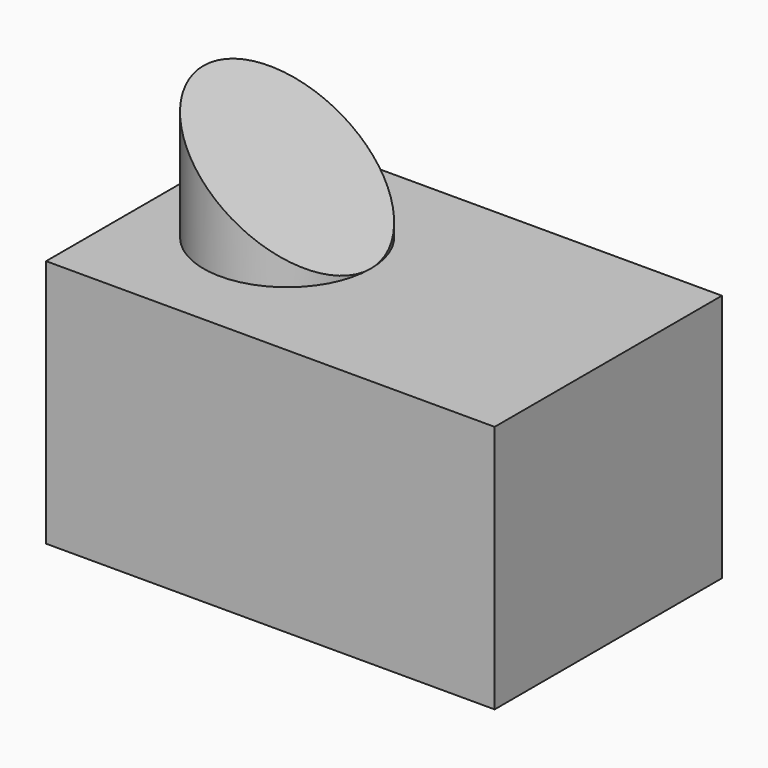
from build123d import *

# Parameters (mm, degrees)
F0_W     = 91.6122980416
F0_H     = 58.0168142915
F1_DEPTH = 50.8
F2_R     = 17.0754278952
F3_DEPTH = 25.4
F4_DEPTH = 50.8
F6_DEPTH = 58.0178142915


with BuildPart() as f1:
    # F0 (on Top) → F1 (new body)
    with BuildSketch(Plane.XY):
        with Locations((-23.8212328404, 42.2187633812)):
            Rectangle(F0_W, F0_H)
    extrude(amount=F1_DEPTH)

    # F2 (on face) → F3 (join)
    with BuildSketch(Plane.XY.offset(50.8)):
        with Locations((-44.6495191595, 43.5129478574)):
            Circle(F2_R)
    extrude(amount=F3_DEPTH)

    # F4 (add): a face of the model
    f4_faces = [f1.faces().sort_by_distance(p)[0] for p in [
        (-19.4842586334, 41.9492815522, 50.8),
    ]]
    extrude(f4_faces, amount=-F4_DEPTH)

    # F5 (on face) → F6 (cut, through all)
    with BuildSketch(Plane.XZ.offset(-13.2103562355)):
        Polygon((-27.5740912643, 76.2), (-61.7249470548, 76.2), (-27.5740912643, 50.8), align=None)
    extrude(amount=-F6_DEPTH, mode=Mode.SUBTRACT)


solid = f1.part
